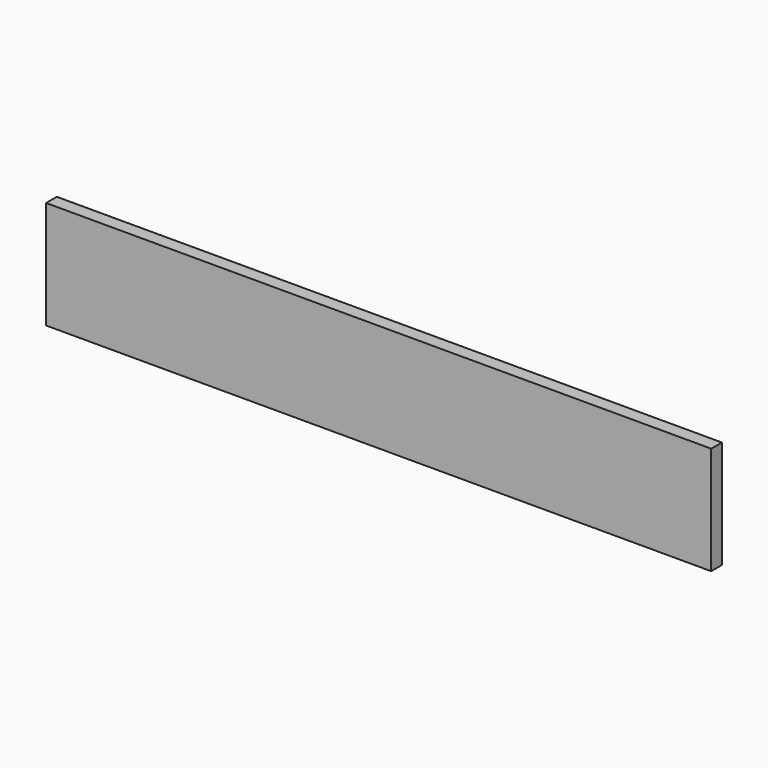
from build123d import *

# Parameters (mm, degrees)
F0_W     = 51.9615262747
F0_H     = 41.4970368147
F1_DEPTH = 18
F2_DEPTH = 145
F3_DEPTH = 896
F4_DEPTH = 896
F5_DEPTH = 2


with BuildPart() as f1:
    # F0 (on Front) → F1 (new body)
    with BuildSketch(Plane.XZ):
        with Locations((25.9807631373, 20.7485184073)):
            Rectangle(F0_W, F0_H)
    extrude(amount=F1_DEPTH)

    # F2 (add): a face of the model
    f2_faces = [f1.faces().sort_by_distance(p)[0] for p in [
        (25.9807631373, -9, 0),
    ]]
    extrude(f2_faces, amount=-F2_DEPTH)

    # F3 (add): a face of the model
    f3_faces = [f1.faces().sort_by_distance(p)[0] for p in [
        (0, -9, 72.5),
    ]]
    extrude(f3_faces, amount=-F3_DEPTH)

    # F4 (add): a face of the model
    f4_faces = [f1.faces().sort_by_distance(p)[0] for p in [
        (0, -9, 72.5),
    ]]
    extrude(f4_faces, amount=-F4_DEPTH)

    # F5 (cut): a face of the model
    f5_faces = [f1.faces().sort_by_distance(p)[0] for p in [
        (896, -9, 72.5),
    ]]
    extrude(f5_faces, amount=-F5_DEPTH, mode=Mode.SUBTRACT)


solid = f1.part
